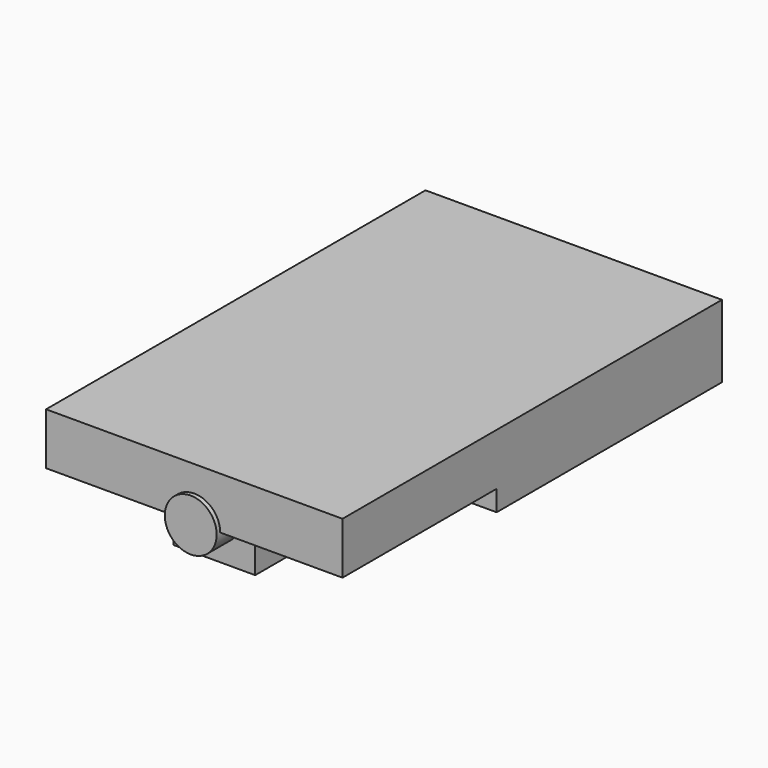
from build123d import *

# Parameters (mm, degrees)
CYLINDER_R        = 5
CYLINDER_DEPTH    = 5
CYLINDER001_R     = 1.75
CYLINDER001_DEPTH = 10
CYLINDER005_R     = 1.75
CYLINDER005_DEPTH = 10
CYLINDER006_R     = 5.1
CYLINDER006_DEPTH = 5
BOX_W             = 10
BOX_H             = 5.5
BOX_DEPTH         = 5.8
EXTRUDE_DEPTH     = 5.8
CYLINDER003_R     = 4.5
CYLINDER003_DEPTH = 5.8
THICKNESS001_T    = 1.5
EXTRUDE001_DEPTH  = 5.8
CYLINDER004_R     = 2.6
CYLINDER004_DEPTH = 5.8
EXTRUDE002_DEPTH  = 20


with BuildPart() as mic:
    # Cylinder → Cylinder (new body)
    with BuildSketch(Plane(origin=(0, 2, 0), x_dir=(1, 0, 0), z_dir=(0, 0, 1))):
        Circle(CYLINDER_R)
    extrude(amount=CYLINDER_DEPTH)


with BuildPart() as screw:
    # Sketch → Revolve (revolve)
    with BuildSketch(Plane.XZ):
        Polygon((0, 0), (2.5, 0), (1, 1.5), (1, 5), (0, 5), align=None)
    revolve(axis=Axis((0, 0, 0), (0, 0, 1)))


with BuildPart() as screw_1:
    # Revolve placement: moved
    add(screw.part.moved(Location((0, -6.5, -0.4))))


with BuildPart() as cylinder:
    # Cylinder001 → Cylinder001 (new body)
    with BuildSketch(Plane(origin=(0, -13, 2.5), x_dir=(1, 0, 0), z_dir=(0, -1, 0))):
        Circle(CYLINDER001_R)
    extrude(amount=CYLINDER001_DEPTH)


with BuildPart() as sub_cylinder:
    # Cylinder005 → Cylinder005 (new body)
    with BuildSketch(Plane(origin=(0, -11, 2.5), x_dir=(1, 0, 0), z_dir=(0, -1, 0))):
        Circle(CYLINDER005_R)
    extrude(amount=CYLINDER005_DEPTH)


with BuildPart() as sub_screw:
    # Sketch002 → Revolve001 (revolve)
    with BuildSketch(Plane.XZ.offset(30)):
        Polygon((0, 0), (2.6, 0), (1.1, 1.5), (1.1, 6), (0, 6), align=None)
    revolve(axis=Axis((0, -30, 0), (0, 0, 1)))


with BuildPart() as sub_screw_1:
    # Revolve001 placement: moved
    add(sub_screw.part.moved(Location((0, 23.5, -0.4))))


with BuildPart() as fusion:
    # Cylinder006 → Cylinder006 (new body)
    with BuildSketch(Plane(origin=(0, 2, 0), x_dir=(1, 0, 0), z_dir=(0, 0, 1))):
        Circle(CYLINDER006_R)
    extrude(amount=CYLINDER006_DEPTH)

    # Fusion: union sub cylinder, sub screw
    add(sub_cylinder.part)
    add(sub_screw_1.part)


with BuildPart() as cube:
    # Box → Box (new body)
    with BuildSketch(Plane(origin=(-2.75, -11, -0.4), x_dir=(0, -1, 0), z_dir=(0, 0, 1))):
        with Locations((5, 2.75)):
            Rectangle(BOX_W, BOX_H)
    extrude(amount=BOX_DEPTH)


with BuildPart() as extrude_body:
    # Sketch001 → Extrude (new body)
    with BuildSketch(Plane.XY.offset(10)):
        Polygon((-6, 2), (-2.75, -13), (-1.75, -13), (-5, 2), align=None)
        Polygon((6, 2), (2.75, -13), (1.75, -13), (5, 2), align=None)
    extrude(amount=-EXTRUDE_DEPTH)


with BuildPart() as extrude_body_1:
    # Extrude placement: moved
    add(extrude_body.part.moved(Location((0, 0, -4.6))))


with BuildPart() as thickness001:
    # Cylinder003 → Cylinder003 (new body)
    with BuildSketch(Plane(origin=(0, 2, -0.4), x_dir=(1, 0, 0), z_dir=(0, 0, 1))):
        Circle(CYLINDER003_R)
    extrude(amount=CYLINDER003_DEPTH)

    # Thickness001
    thickness001_openings = [thickness001.faces().sort_by_distance(p)[0] for p in [
        (0, 2, 5.4),
        (0, 2, -0.4),
    ]]
    offset(amount=THICKNESS001_T, openings=thickness001_openings)


with BuildPart() as extrude001:
    # Sketch003 → Extrude001 (new body)
    with BuildSketch(Plane.XY.offset(10)):
        Polygon((-4, -5.5), (4, -5.5), (3.447251, -7.5), (-3.442226, -7.5), align=None)
    extrude(amount=-EXTRUDE001_DEPTH)


with BuildPart() as extrude001_1:
    # Extrude001 placement: moved
    add(extrude001.part.moved(Location((0, 0, -4.6))))


with BuildPart() as cut:
    # Cylinder004 → Cylinder004 (new body)
    with BuildSketch(Plane(origin=(0, -6.5, -0.4), x_dir=(1, 0, 0), z_dir=(0, 0, 1))):
        Circle(CYLINDER004_R)
    extrude(amount=CYLINDER004_DEPTH)

    # Fusion001: union Cube, Extrude body, Thickness001, Extrude001
    add(cube.part)
    add(extrude_body_1.part)
    add(thickness001.part)
    add(extrude001_1.part)

    # Cut: cut Fusion
    add(fusion.part, mode=Mode.SUBTRACT)


with BuildPart() as union_print_mask:
    # Sketch004 → Extrude002 (new body)
    with BuildSketch(Plane.YZ.offset(20)):
        Polygon((-10, 1.1), (9, 1.1), (9, 6), (-23, 6), (-23, 2.5), (-10, 2.5), align=None)
    extrude(amount=-EXTRUDE002_DEPTH)


with BuildPart() as union_print_mask_1:
    # Extrude002 placement: moved
    add(union_print_mask.part.moved(Location((-10, 0, 0))))


with BuildPart() as union_print_mask_2:
    # Body placement: moved
    add(union_print_mask_1.part.moved(Location((0, 0.3, 0))))


solid = Compound([mic.part, screw_1.part, cylinder.part, cut.part, union_print_mask_2.part])
